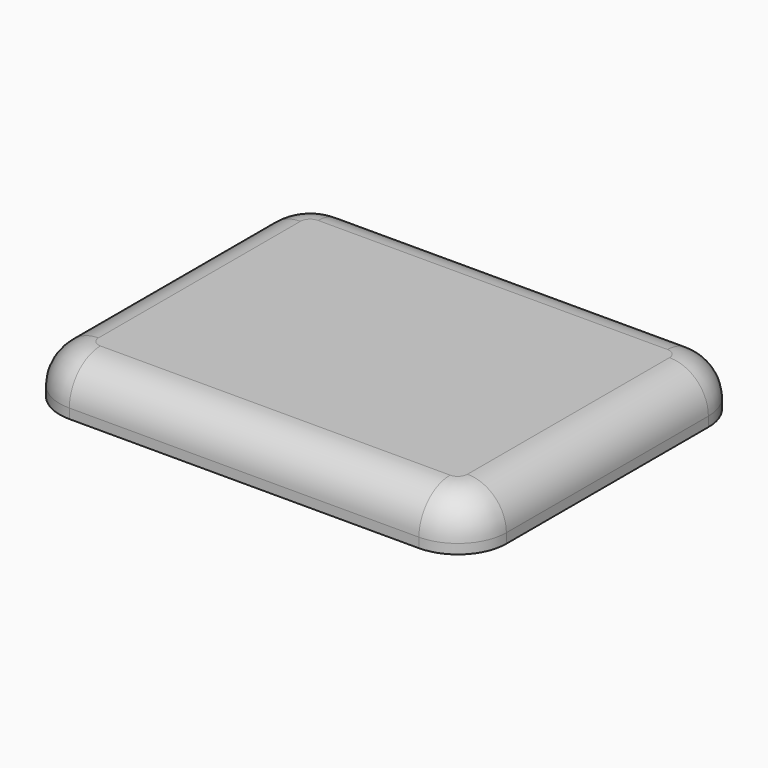
from build123d import *

# Parameters (mm, degrees)
SKETCH_W    = 46
SKETCH_H    = 36
PAD_DEPTH   = 5
FILLET_R    = 5
FILLET001_R = 5
FILLET002_R = 4


with BuildPart() as part:
    # Sketch → Pad (new body)
    with BuildSketch(Plane.XY):
        Rectangle(SKETCH_W, SKETCH_H)
    extrude(amount=PAD_DEPTH)

    # Fillet
    fillet_edges = [part.edges().sort_by_distance(p)[0] for p in [
        (23, -18, 2.5),
        (23, 18, 2.5),
        (-23, -18, 2.5),
    ]]
    fillet(fillet_edges, radius=FILLET_R)

    # Fillet001
    fillet001_edges = [part.edges().sort_by_distance(p)[0] for p in [
        (-23, 18, 2.5),
    ]]
    fillet(fillet001_edges, radius=FILLET001_R)

    # Fillet002
    fillet002_edges = [part.edges().sort_by_distance(p)[0] for p in [
        (-21.535534, -16.535534, 5),
        (21.535534, -16.535534, 5),
        (0, -18, 5),
        (23, 0, 5),
        (21.535534, 16.535534, 5),
        (0, 18, 5),
        (-21.535534, 16.535534, 5),
        (-23, 0, 5),
    ]]
    fillet(fillet002_edges, radius=FILLET002_R)


solid = part.part
